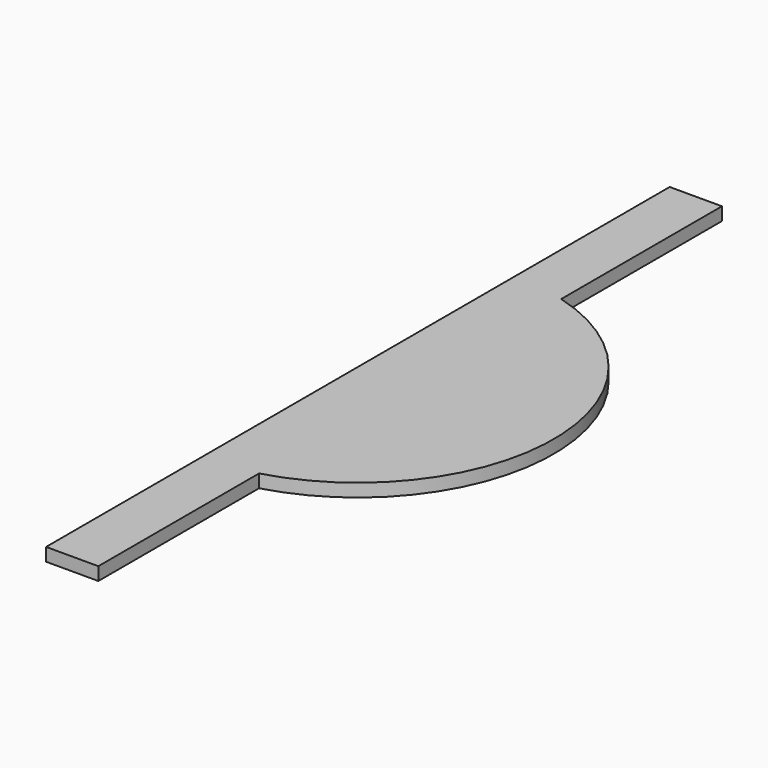
from build123d import *

# Parameters (mm, degrees)
F1_DEPTH = 10


with BuildPart() as f1:
    # F0 (on Top) → F1 (new body)
    with BuildSketch(Plane.XY):
        with BuildLine():
            ThreePointArc((40, -144.568323), (149.838913, 0), (40, 144.568323))
            Line((40, 144.568323), (40, 298.32397))
            Line((40, 298.32397), (0, 298.32397))
            Line((0, 298.32397), (0, -298.32397))
            Line((0, -298.32397), (40, -298.32397))
            Line((40, -298.32397), (40, -148.320604))
            Line((40, -148.320604), (40, -144.568323))
        make_face()
    extrude(amount=F1_DEPTH)


solid = f1.part
